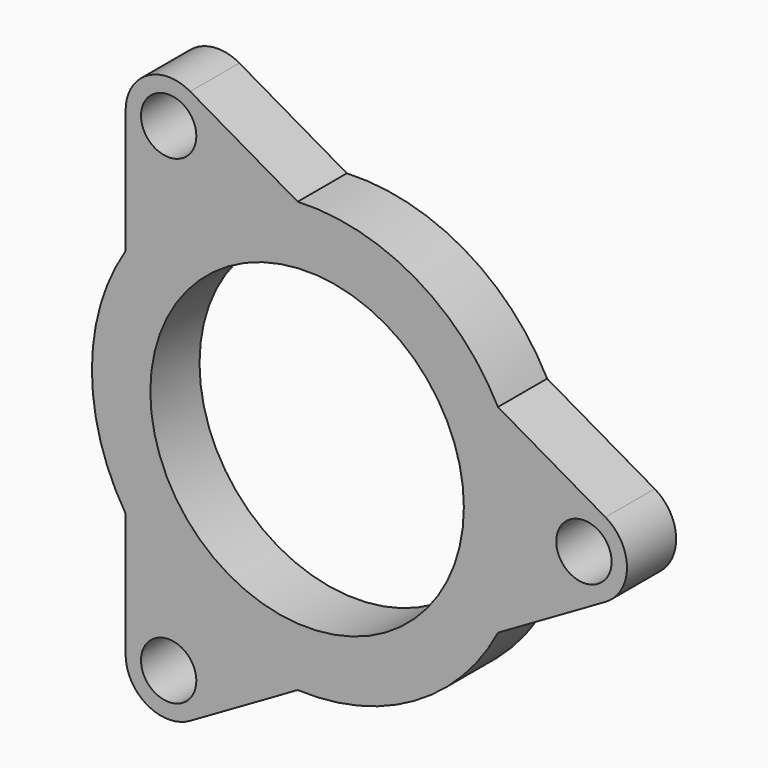
from build123d import *

# Parameters (mm, degrees)
F0_R     = 4.5
F0_R_2   = 25.5
F1_DEPTH = 10


with BuildPart() as f1:
    # F0 (on Front) → F1 (new body)
    with BuildSketch(Plane.XZ):
        with BuildLine():
            ThreePointArc((48.533321, -6.062178), (52.033321, 0), (48.533321, 6.062178))
            Line((48.533321, 6.062178), (31.047132, 16.157834))
            ThreePointArc((31.047132, 16.157834), (17.5, 30.310889), (-1.530472, 34.966522))
            Line((-1.530472, 34.966522), (-19.01666, 45.062178))
            ThreePointArc((-19.01666, 45.062178), (-26.01666, 45.062178), (-29.51666, 39))
            Line((-29.51666, 39), (-29.51666, 18.808688))
            ThreePointArc((-29.51666, 18.808688), (-35, 0), (-29.51666, -18.808688))
            Line((-29.51666, -18.808688), (-29.51666, -39))
            ThreePointArc((-29.51666, -39), (-26.01666, -45.062178), (-19.01666, -45.062178))
            Line((-19.01666, -45.062178), (-1.530472, -34.966522))
            ThreePointArc((-1.530472, -34.966522), (17.5, -30.310889), (31.047132, -16.157834))
            Line((31.047132, -16.157834), (48.533321, -6.062178))
        make_face()
        with Locations((-22.51666, -39)):
            Circle(F0_R, mode=Mode.SUBTRACT)
        Circle(F0_R_2, mode=Mode.SUBTRACT)
        with Locations((45.033321, 0)):
            Circle(F0_R, mode=Mode.SUBTRACT)
        with Locations((-22.51666, 39)):
            Circle(F0_R, mode=Mode.SUBTRACT)
    extrude(amount=F1_DEPTH)


solid = f1.part
